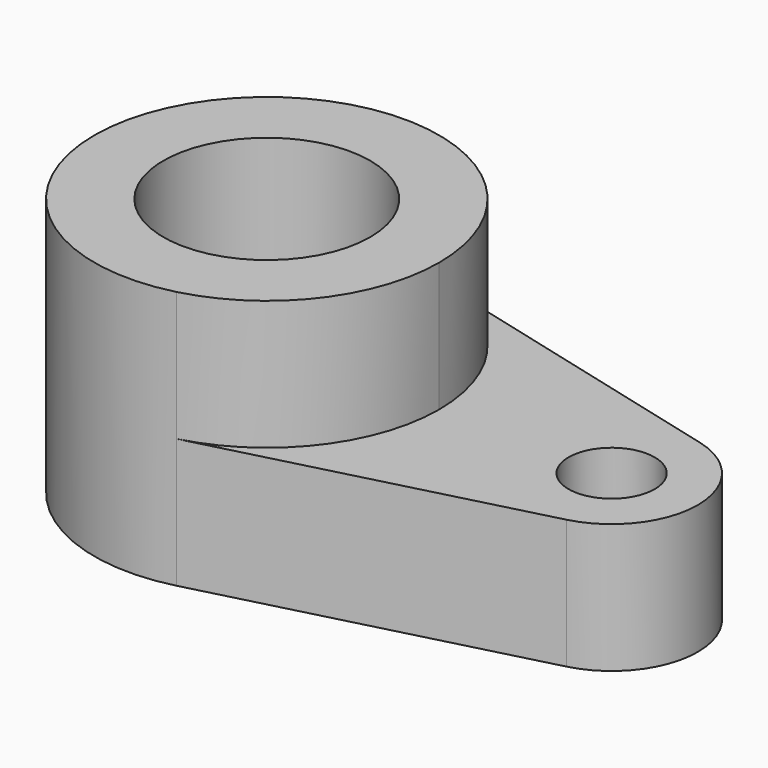
from build123d import *

# Parameters (mm, degrees)
F0_R     = 5
F1_DEPTH = 15
F2_DEPTH = 15
F0_R_2   = 12
F3_DEPTH = 30


with BuildPart() as f1:
    # F0 (on Top) → F1 (new body)
    with BuildSketch(Plane.XY):
        with BuildLine():
            ThreePointArc((-56.956682, 40.976544), (-46.145294, 33.859076), (-41.956682, 21.611627))
            ThreePointArc((-41.956682, 21.611627), (-46.145294, 9.364178), (-56.956682, 2.24671))
            Line((-56.956682, 2.24671), (-19.456682, 11.929169))
            ThreePointArc((-19.456682, 11.929169), (-11.956682, 21.611627), (-19.456682, 31.294085))
            Line((-19.456682, 31.294085), (-56.956682, 40.976544))
        make_face()
        with Locations((-21.956682, 21.611627)):
            Circle(F0_R, mode=Mode.SUBTRACT)
    extrude(amount=F1_DEPTH)

    # F0 (on Top) → F2 (join)
    with BuildSketch(Plane.XY):
        with BuildLine():
            ThreePointArc((-56.956682, 40.976544), (-46.145294, 33.859076), (-41.956682, 21.611627))
            ThreePointArc((-41.956682, 21.611627), (-46.145294, 9.364178), (-56.956682, 2.24671))
            Line((-56.956682, 2.24671), (-19.456682, 11.929169))
            ThreePointArc((-19.456682, 11.929169), (-11.956682, 21.611627), (-19.456682, 31.294085))
            Line((-19.456682, 31.294085), (-56.956682, 40.976544))
        make_face()
        with Locations((-21.956682, 21.611627)):
            Circle(F0_R, mode=Mode.SUBTRACT)
    extrude(amount=F2_DEPTH)

    # F0 (on Top) → F3 (join)
    with BuildSketch(Plane.XY):
        with BuildLine():
            ThreePointArc((-56.956682, 2.24671), (-46.145294, 9.364178), (-41.956682, 21.611627))
            ThreePointArc((-41.956682, 21.611627), (-46.145294, 33.859076), (-56.956682, 40.976544))
            ThreePointArc((-56.956682, 40.976544), (-81.956682, 21.611627), (-56.956682, 2.24671))
        make_face()
        with Locations((-61.956682, 21.611627)):
            Circle(F0_R_2, mode=Mode.SUBTRACT)
    extrude(amount=F3_DEPTH)


solid = f1.part
